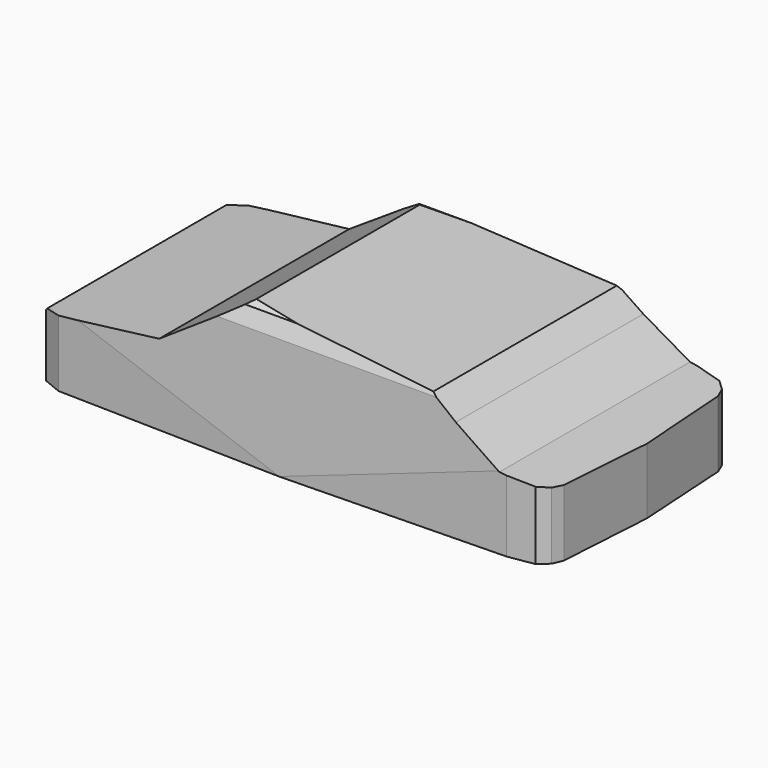
from build123d import *

# Parameters (mm, degrees)
F0_W     = 5181.6
F0_H     = 2438.4
F1_DEPTH = 1524
F2_W     = 6013.317108
F2_H     = 2221.975178
F4_DEPTH = 2438.401
F3_W     = 6408.629179
F3_H     = 3328.86374
F5_DEPTH = 1524.001
F6_W     = 3945.398092
F6_H     = 2208.867222
F7_DEPTH = 12700


with BuildPart() as f1:
    # F0 (on Top) → F1 (new body)
    with BuildSketch(Plane.XY):
        with Locations((13.048083, 260.797922)):
            Rectangle(F0_W, F0_H)
    extrude(amount=F1_DEPTH)

    # F2 (on face) → F4 (cut, through all)
    with BuildSketch(Plane.XZ.offset(958.402078)):
        with Locations((63.637257, 640.401438)):
            Rectangle(F2_W, F2_H)
        Polygon((2091.261387, 708.084106), (2603.848083, 644.820392), (2603.848083, 0), (-2577.751917, 0), (-2577.751917, 429.72371), (-2400.462866, 632.167637), (-1249.063134, 771.347821), (-426.634789, 1315.415859), (1408.012986, 1163.582921), (1648.415208, 986.444473), align=None, mode=Mode.SUBTRACT)
    extrude(amount=-F4_DEPTH, mode=Mode.SUBTRACT)

    # F3 (on face) → F5 (cut, through all)
    with BuildSketch(Plane.XY.offset(1524)):
        with Locations((28.381705, 245.088637)):
            Rectangle(F3_W, F3_H)
        Polygon((2544.847727, 1206.357837), (2603.848083, 260.797922), (2544.847727, -684.761993), (2503.82638, -783.213488), (2413.579226, -865.256421), (2159.246206, -906.277768), (-29.949147, -958.402078), (-2235.715866, -906.277768), (-2416.210175, -832.309715), (-2506.457329, -651.815407), (-2577.751917, 260.797922), (-2506.457329, 1173.41125), (-2416.210175, 1353.905559), (-2235.715866, 1427.873611), (-29.949147, 1479.997922), (2159.246206, 1427.873611), (2413.579226, 1386.852264), (2503.82638, 1304.809332), align=None, mode=Mode.SUBTRACT)
    extrude(amount=-F5_DEPTH, mode=Mode.SUBTRACT)

    # F6 (on Right) → F7 (cut, symmetric)
    with BuildSketch(Plane.YZ):
        with Locations((295.375705, 715.462372)):
            Rectangle(F6_W, F6_H)
        Polygon((260.797922, 0), (-958.402078, 0), (-878.660321, 1133.589864), (-806.59622, 1277.717948), (-617.428064, 1385.814071), (-145.066872, 1499.75121), (260.797922, 1524), (666.662716, 1499.75121), (1139.023908, 1385.814071), (1328.192063, 1277.717948), (1400.256165, 1133.589864), (1479.997922, 0), align=None, mode=Mode.SUBTRACT)
    extrude(amount=F7_DEPTH, both=True, mode=Mode.SUBTRACT)


solid = f1.part
